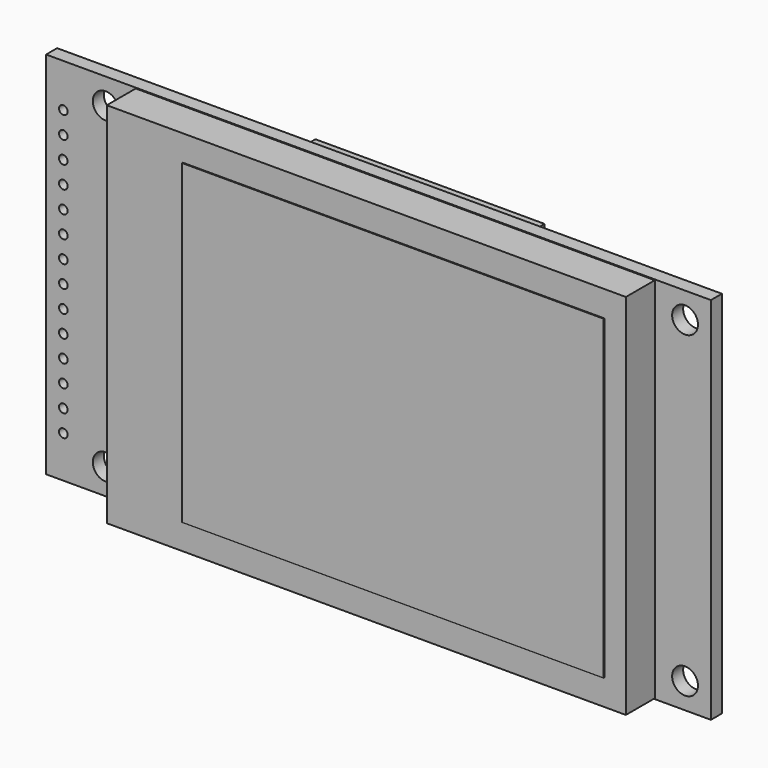
from build123d import *

# Parameters (mm, degrees)
SKETCH_W            = 60.26
SKETCH_H            = 42.72
PAD_DEPTH           = 4.2
SKETCH001_W         = 48.96
SKETCH001_H         = 36.72
PAD001_DEPTH        = 0.1
SKETCH002_W         = 77.18
SKETCH002_H         = 42.9
SKETCH002_R         = 1.5
PAD002_DEPTH        = 1.6
SKETCH004_R         = 0.5
POCKET_DEPTH        = 5.801
POCKET_DEPTH_BACK   = -0.001
LINEARPATTERN_COUNT = 14
LINEARPATTERN_PITCH = 2.54
PAD003_DEPTH        = 2.9
SKETCH010_W         = 34
SKETCH010_H         = 19.5
PAD004_DEPTH        = 1


with BuildPart() as glass:
    # Sketch → Pad (new body)
    with BuildSketch(Plane.XZ):
        with Locations((-3.15, 0)):
            Rectangle(SKETCH_W, SKETCH_H)
    extrude(amount=-PAD_DEPTH)

    # Sketch001 → Pad001 (join)
    with BuildSketch(Plane.XZ):
        Rectangle(SKETCH001_W, SKETCH001_H)
    extrude(amount=PAD001_DEPTH)


with BuildPart() as pcb:
    # Sketch002 → Pad002 (new body)
    with BuildSketch(Plane.XZ.offset(-4.2)):
        with Locations((-5.1, 0)):
            Rectangle(SKETCH002_W, SKETCH002_H)
        with Locations((30.49, 18.45)):
            Circle(SKETCH002_R, mode=Mode.SUBTRACT)
        with Locations((30.49, -18.45)):
            Circle(SKETCH002_R, mode=Mode.SUBTRACT)
        with Locations((-36.77, -18.45)):
            Circle(SKETCH002_R, mode=Mode.SUBTRACT)
        with Locations((-36.77, 18.45)):
            Circle(SKETCH002_R, mode=Mode.SUBTRACT)
    extrude(amount=-PAD002_DEPTH)

    # Sketch004 → Pocket (cut, two sides)
    with BuildSketch(Plane.XZ) as pocket_sk:
        with Locations((-41.69, -16.6)):
            Circle(SKETCH004_R)
    pocket = extrude(amount=-POCKET_DEPTH, mode=Mode.SUBTRACT)
    extrude(pocket_sk.sketch, amount=-POCKET_DEPTH_BACK, mode=Mode.SUBTRACT)

    # LinearPattern: Pocket ×14
    with Locations(*[(0, 0, i * LINEARPATTERN_PITCH) for i in range(1, LINEARPATTERN_COUNT)]):
        add(pocket, mode=Mode.SUBTRACT)


with BuildPart() as sd_card_slot:
    # Sketch005 → Pad003 (new body)
    with BuildSketch(Plane.XZ.offset(-5.8)):
        Polygon((-16.02, 19.96), (10.58, 19.96), (10.58, 10.96), (8.48, 8.86), (8.48, 3.26), (-16.02, 3.26), align=None)
    extrude(amount=-PAD003_DEPTH)


with BuildPart() as components:
    # Sketch010 → Pad004 (new body)
    with BuildSketch(Plane.XZ.offset(-5.8)):
        with Locations((-10.99, -7.7)):
            Rectangle(SKETCH010_W, SKETCH010_H)
    extrude(amount=-PAD004_DEPTH)


solid = Compound([glass.part, pcb.part, sd_card_slot.part, components.part])
